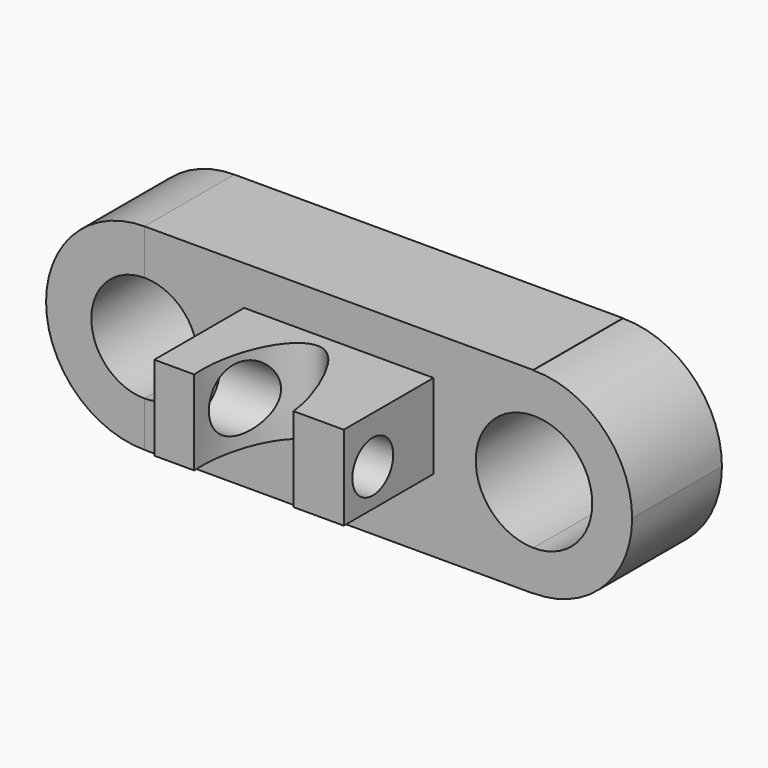
from build123d import *

# Parameters (mm, degrees)
F0_W          = 87.9835039377
F0_H          = 44.5416495204
F3_DEPTH      = 25.4
F5_DEPTH      = 25.4
F5_DEPTH_BACK = 25.4
F7_DEPTH      = 25.4
F8_W          = 42.8839027882
F8_H          = 19.1308041103
F9_DEPTH      = 25.4
F11_DEPTH     = 25.4
F12_R         = 5.7794628443
F13_DEPTH     = 25.4
F14_R         = 7.2586378787
F15_DEPTH     = 25.4


with BuildPart() as f3:
    # F0 (on Front) → F3 (new body)
    with BuildSketch(Plane.XZ):
        Rectangle(F0_W, F0_H)
    extrude(amount=F3_DEPTH)


with BuildPart() as f3b:
    # F1 (on face) → F3, piece 2 (new body)
    with BuildSketch(Plane.XZ):
        with BuildLine():
            ThreePointArc((-43.7325923224, 22.2708247602), (-28.1514727879, 15.6570225359), (-21.7194193739, 0))
            ThreePointArc((-21.7194193739, 0), (-28.1514727879, -15.6570225359), (-43.7325923224, -22.2708247602))
            Line((-43.7325923224, -22.2708247602), (43.9917519689, -22.2708247602))
            Line((43.9917519689, -22.2708247602), (43.9917519689, 22.2708247602))
            Line((43.9917519689, 22.2708247602), (-43.7325923224, 22.2708247602))
        make_face()
        with BuildLine():
            ThreePointArc((-43.7325923224, -22.2708247602), (-28.1514727879, -15.6570225359), (-21.7194193739, 0))
            ThreePointArc((-21.7194193739, 0), (-28.1514727879, 15.6570225359), (-43.7325923224, 22.2708247602))
            Line((-43.7325923224, 22.2708247602), (-43.9917519689, 22.2708247602))
            Line((-43.9917519689, 22.2708247602), (-43.9917519689, -22.2708247602))
            Line((-43.9917519689, -22.2708247602), (-43.7325923224, -22.2708247602))
        make_face()
        with BuildLine():
            Line((-43.9917519689, 22.2708247602), (-43.7325923224, 22.2708247602))
            ThreePointArc((-43.7325923224, 22.2708247602), (-66.2640845638, 0), (-43.7325923224, -22.2708247602))
            Line((-43.7325923224, -22.2708247602), (-43.9917519689, -22.2708247602))
            Line((-43.9917519689, -22.2708247602), (-43.9917519689, 22.2708247602))
        make_face()
    extrude(amount=F3_DEPTH)


with BuildPart() as f3c:
    # F2 (on face) → F3, piece 3 (new body)
    with BuildSketch(Plane.XZ):
        with BuildLine():
            ThreePointArc((43.9917519689, -22.2149348769), (59.8189766852, -15.7735387314), (66.390742233, 0))
            ThreePointArc((66.390742233, 0), (59.8189766852, 15.7735387314), (43.9917519689, 22.2149348769))
            Line((43.9917519689, 22.2149348769), (43.9917519689, -22.2149348769))
        make_face()
        with BuildLine():
            Line((43.9917519689, -22.2149348769), (43.9917519689, 22.2149348769))
            ThreePointArc((43.9917519689, 22.2149348769), (21.9593600724, 0), (43.9917519689, -22.2149348769))
        make_face()
        with BuildLine():
            ThreePointArc((43.9917519689, -22.2149348769), (21.9593600724, 0), (43.9917519689, 22.2149348769))
            Line((43.9917519689, 22.2149348769), (43.9917519689, 22.2708247602))
            Line((43.9917519689, 22.2708247602), (-43.9917519689, 22.2708247602))
            Line((-43.9917519689, 22.2708247602), (-43.9917519689, -22.2708247602))
            Line((-43.9917519689, -22.2708247602), (43.9917519689, -22.2708247602))
            Line((43.9917519689, -22.2708247602), (43.9917519689, -22.2149348769))
        make_face()
    extrude(amount=F3_DEPTH)


with BuildPart() as f5_tool:
    # F4 (on face) → F5 (new body, two sides)
    with BuildSketch(Plane.XZ.offset(25.4)) as f5_sk:
        with BuildLine():
            Line((-43.9917519689, -12.0311183239), (-43.9917519689, 12.0311183239))
            ThreePointArc((-43.9917519689, 12.0311183239), (-56.0228702927, 0), (-43.9917519689, -12.0311183239))
        make_face()
        with BuildLine():
            ThreePointArc((-43.9917519689, -12.0311183239), (-35.4844666168, -8.5072853521), (-31.960633645, 0))
            ThreePointArc((-31.960633645, 0), (-35.4844666168, 8.5072853521), (-43.9917519689, 12.0311183239))
            Line((-43.9917519689, 12.0311183239), (-43.9917519689, -12.0311183239))
        make_face()
    extrude(amount=-F5_DEPTH)
    extrude(f5_sk.sketch, amount=F5_DEPTH_BACK)


with BuildPart() as f3_1:
    add(f3.part)

    # F5: cut by f5_tool
    add(f5_tool.part, mode=Mode.SUBTRACT)


with BuildPart() as f3b_1:
    add(f3b.part)

    # F5: cut by f5_tool
    add(f5_tool.part, mode=Mode.SUBTRACT)


with BuildPart() as f3c_1:
    add(f3c.part)

    # F5: cut by f5_tool
    add(f5_tool.part, mode=Mode.SUBTRACT)


with BuildPart() as f7_tool:
    # F6 (on face) → F7 (new body)
    with BuildSketch(Plane.XZ.offset(25.4)):
        with BuildLine():
            Line((43.9917519689, -13.181575652), (43.9917519689, 13.181575652))
            ThreePointArc((43.9917519689, 13.181575652), (30.9922011095, 0), (43.9917519689, -13.181575652))
        make_face()
        with BuildLine():
            ThreePointArc((43.9917519689, -13.181575652), (53.431700914, -9.3862649897), (57.3579011959, 0))
            ThreePointArc((57.3579011959, 0), (53.431700914, 9.3862649897), (43.9917519689, 13.181575652))
            Line((43.9917519689, 13.181575652), (43.9917519689, -13.181575652))
        make_face()
    extrude(amount=-F7_DEPTH)


with BuildPart() as f3_2:
    add(f3_1.part)

    # F7: cut by f7_tool
    add(f7_tool.part, mode=Mode.SUBTRACT)


with BuildPart() as f3b_2:
    add(f3b_1.part)

    # F7: cut by f7_tool
    add(f7_tool.part, mode=Mode.SUBTRACT)


with BuildPart() as f3c_2:
    add(f3c_1.part)

    # F7: cut by f7_tool
    add(f7_tool.part, mode=Mode.SUBTRACT)


with BuildPart() as f9:
    # F8 (on face) → F9 (new body)
    with BuildSketch(Plane.XZ.offset(25.4)):
        with Locations((0, 3.7890414242)):
            Rectangle(F8_W, F8_H)
    extrude(amount=F9_DEPTH)

    # F10 (on face) → F11 (cut)
    with BuildSketch(Plane(origin=(0, 0, -5.776360631), x_dir=(1, 0, 0), z_dir=(0, 0, -1))):
        with BuildLine():
            Line((10.0703872731, 50.8), (-12.4126139952, 50.8))
            add(Edge.make_bspline(
                [(-12.4126139952, 50.8), (-12.8399255504, 45.8355769161), (-10.5234615407, 33.7889043831), (-1.9871249362, 25.8058458312), (5.0654346886, 33.7469488905), (9.515784338, 45.7802411886), (10.0703872731, 50.8)],
                knots=[0.1012460128, 0.1012460128, 0.1012460128, 0.1012460128, 0.2385123888, 0.3997289225, 0.5588346678, 0.6978351625, 0.6978351625, 0.6978351625, 0.6978351625], degree=3))
        make_face()
        with BuildLine():
            add(Edge.make_bspline(
                [(10.0703872731, 50.8), (10.472425487, 54.4388824127), (9.2819770926, 64.4195463728), (-4.2079002481, 64.4583017468), (-8.7079945952, 60.0342489779)],
                knots=[0.6978351625, 0.6978351625, 0.6978351625, 0.6978351625, 0.7985982617, 1, 1, 1, 1], degree=3))
            add(Edge.make_bspline(
                [(-8.7079945952, 60.0342489779), (-10.9702223888, 57.8102477986), (-12.0974341784, 54.461698212), (-12.4126139952, 50.8)],
                knots=[0, 0, 0, 0, 0.1012460128, 0.1012460128, 0.1012460128, 0.1012460128], degree=3))
            Line((-12.4126139952, 50.8), (10.0703872731, 50.8))
        make_face()
    extrude(amount=-F11_DEPTH, mode=Mode.SUBTRACT)

    # F12 (on face) → F13 (cut)
    with BuildSketch(Plane.YZ.offset(21.4419513941)):
        with Locations((-42.5987876952, 2.6833429001)):
            Circle(F12_R)
    extrude(amount=-F13_DEPTH, mode=Mode.SUBTRACT)

    # F14 (on face) → F15 (cut)
    with BuildSketch(Plane(origin=(-21.4419513941, 0, 0), x_dir=(0, -1, 0), z_dir=(-1, 0, 0))):
        with Locations((39.3686965108, 4.3867528439)):
            Circle(F14_R)
    extrude(amount=-F15_DEPTH, mode=Mode.SUBTRACT)


solid = Compound([f3_2.part, f3b_2.part, f3c_2.part, f9.part])
